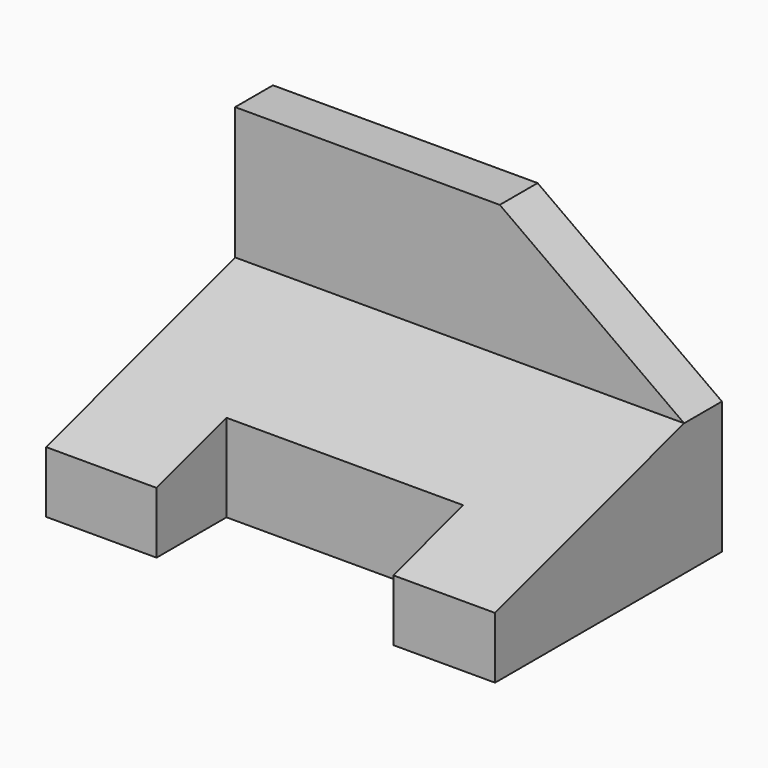
from build123d import *

# Parameters (mm, degrees)
F1_DEPTH = 95
F3_DEPTH = 25
F4_W     = 50.086444
F4_H     = 18.488904
F5_DEPTH = 56.001


with BuildPart() as f1:
    # F0 (on Right) → F1 (new body)
    with BuildSketch(Plane.YZ):
        Polygon((-60, 0), (0, 0), (0, 56), (-10, 56), (-10, 28), (-60, 13), align=None)
    extrude(amount=F1_DEPTH)

    # F2 (on face) → F3 (cut)
    with BuildSketch(Plane.XZ.offset(10)):
        Polygon((56, 56), (95, 28), (95, 56), align=None)
    extrude(amount=-F3_DEPTH, mode=Mode.SUBTRACT)

    # F4 (on face) → F5 (cut, through all)
    with BuildSketch(Plane(origin=(0, 0, 0), x_dir=(1, 0, 0), z_dir=(0, 0, -1))):
        with Locations((48.419592, 50.755548)):
            Rectangle(F4_W, F4_H)
    extrude(amount=-F5_DEPTH, mode=Mode.SUBTRACT)


solid = f1.part
